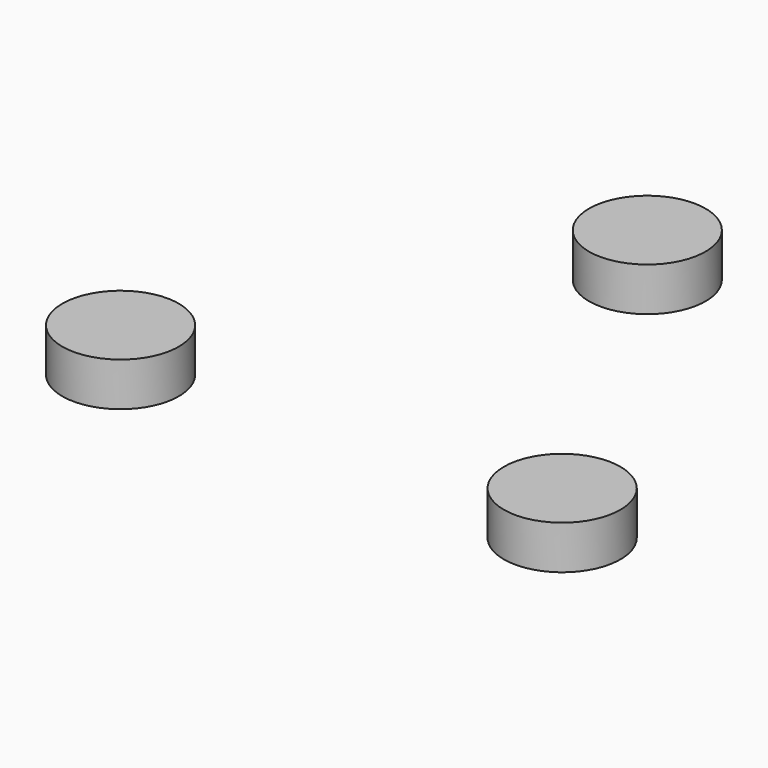
from build123d import *

# Parameters (mm, degrees)
CYLINDER031_R               = 2
CYLINDER031_DEPTH           = 1.5
CYLINDER032_R               = 2
CYLINDER032_DEPTH           = 1.5
CYLINDER032_PLACEMENT_ANGLE = -60
CYLINDER030_R               = 2
CYLINDER030_DEPTH           = 1.5
CYLINDER030_PLACEMENT_ANGLE = 60


with BuildPart() as cylinder031:
    # Cylinder031 → Cylinder031 (new body)
    with BuildSketch(Plane(origin=(0, 8.75, -2.5), x_dir=(-1, 0, 0), z_dir=(0, 0, 1))):
        Circle(CYLINDER031_R)
    extrude(amount=CYLINDER031_DEPTH)


with BuildPart() as cylinder032:
    # Cylinder032 → Cylinder032 (new body)
    with BuildSketch(Plane.XY):
        Circle(CYLINDER032_R)
    extrude(amount=CYLINDER032_DEPTH)


with BuildPart() as cylinder032_1:
    # Cylinder032 placement: moved
    add(cylinder032.part.moved(Location((-7.577722, -4.375, -2.5))).rotate(Axis((-7.577722, -4.375, -2.5), (0, 0, 1)), CYLINDER032_PLACEMENT_ANGLE))


with BuildPart() as fusion009:
    # Cylinder030 → Cylinder030 (new body)
    with BuildSketch(Plane.XY):
        Circle(CYLINDER030_R)
    extrude(amount=CYLINDER030_DEPTH)


with BuildPart() as fusion009_1:
    # Cylinder030 placement: moved
    add(fusion009.part.moved(Location((7.577722, -4.375, -2.5))).rotate(Axis((7.577722, -4.375, -2.5), (0, 0, 1)), CYLINDER030_PLACEMENT_ANGLE))

    # Fusion009: union Cylinder031, Cylinder032
    add(cylinder031.part)
    add(cylinder032_1.part)


with BuildPart() as fusion009_2:
    # Fusion009 placement: moved
    add(fusion009_1.part.moved(Location((0, 0, 2.5))))


solid = fusion009_2.part
